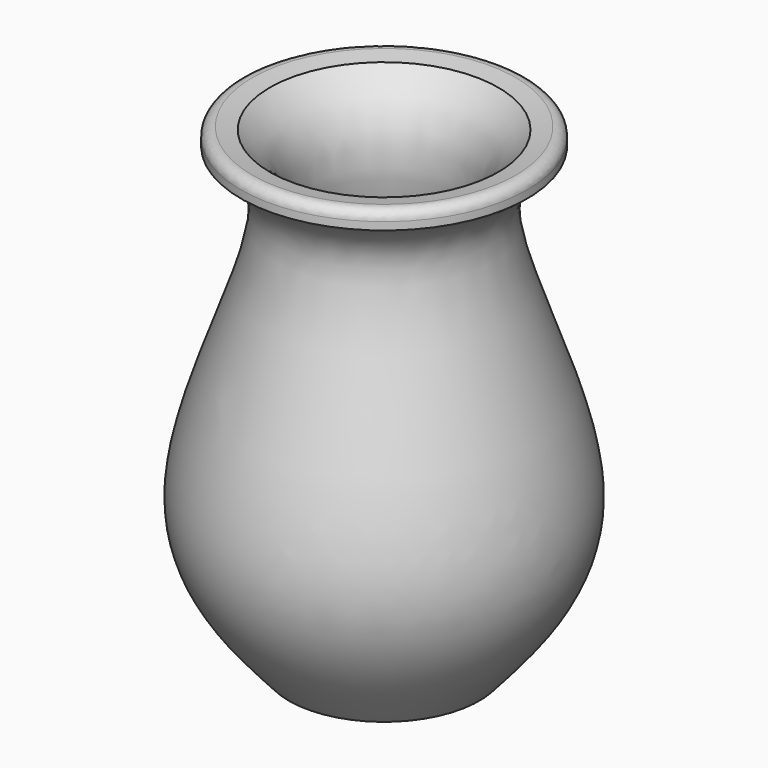
from build123d import *

# Parameters (mm, degrees)
F2_R = 20


with BuildPart() as f1:
    # F0 (on Front) → F1 (revolve)
    with BuildSketch(Plane.XZ):
        with BuildLine():
            Line((-240, 466.798542738), (-300, 476.798542738))
            Line((-300, 476.798542738), (-300, 436.798542738))
            add(Edge.make_bspline(
                [(-300, 436.798542738), (-262.2185359686, 410.373573585), (-148.6746493755, 330.9591364358), (-465.8704913896, -224.3531432487), (-282.4203722429, -430.5578955173), (-200, -523.201457262)],
                knots=[0, 0, 0, 0, 0.2154618029, 0.6475230949, 1, 1, 1, 1], degree=3))
            Line((-200, -523.201457262), (0, -523.201457262))
            Line((0, -523.201457262), (0, -463.201457262))
            Line((0, -463.201457262), (-200, -463.201457262))
            add(Edge.make_bspline(
                [(-240, 466.798542738), (-196.3961405941, 432.1257214979), (-96.5203675588, 328.2636183542), (-374.9004659051, -208.2607791995), (-263.042873483, -392.7398806467), (-200, -463.201457262)],
                knots=[0, 0, 0, 0, 0.240023517, 0.6815760983, 1, 1, 1, 1], degree=3))
        make_face()
    revolve(axis=Axis((0, 0, -23.201457262), (0, 0, -1)))

    # F2
    f2_edges = [f1.edges().sort_by_distance(p)[0] for p in [
        (300, 0, 476.798543),
    ]]
    fillet(f2_edges, radius=F2_R)


solid = f1.part
